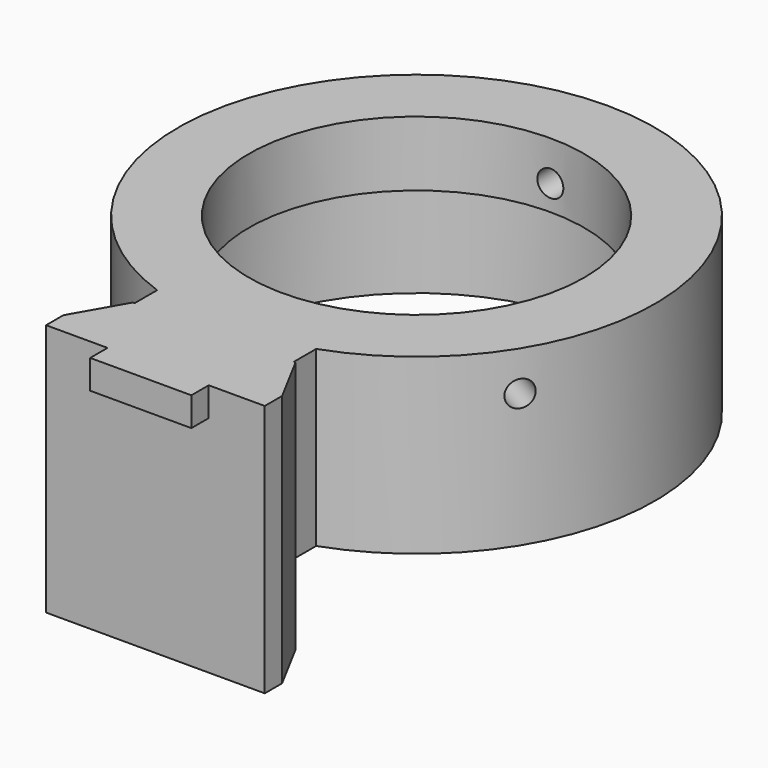
from build123d import *

# Parameters (mm, degrees)
CYLINDER004006_R                  = 2.1
CYLINDER004006_DEPTH              = 10
CYLINDER004005_R                  = 3.5
CYLINDER004005_DEPTH              = 3
FILLET001_R                       = 1
CYLINDER004008_R                  = 2.75
CYLINDER004008_DEPTH              = 8
CYLINDER004010_R                  = 3.5
CYLINDER004010_DEPTH              = 4
CYLINDER004009_R                  = 8
CYLINDER004009_DEPTH              = 6
FILLET_R                          = 1
CYLINDER003003009_R               = 28
CYLINDER003003009_DEPTH           = 15
CYLINDER003_R                     = 1.8
CYLINDER003_DEPTH                 = 15
CYLINDER003003007_PLACEMENT_ANGLE = 120
CYLINDER003003008_PLACEMENT_ANGLE = 120
BOX141_W                          = 14
BOX141_H                          = 4
BOX141_DEPTH                      = 3
EXTRUDE086_DEPTH                  = 35
FUSION445_PLACEMENT_ANGLE         = 90
CYLINDER_R                        = 23.2
CYLINDER_DEPTH                    = 42
CYLINDER002_R                     = 33
CYLINDER002_DEPTH                 = 24
BOX145_W                          = 22
BOX145_H                          = 8
BOX145_DEPTH                      = 24


with BuildPart() as obj1:
    # Cylinder004006 → Cylinder004006 (new body)
    with BuildSketch(Plane.XY.offset(1)):
        Circle(CYLINDER004006_R)
    extrude(amount=CYLINDER004006_DEPTH)


with BuildPart() as obj2:
    # Cylinder004005 → Cylinder004005 (new body)
    with BuildSketch(Plane.XY):
        Circle(CYLINDER004005_R)
    extrude(amount=CYLINDER004005_DEPTH)

    # Cut001005: cut obj1
    add(obj1.part, mode=Mode.SUBTRACT)

    # Fillet001
    fillet001_edges = [obj2.edges().sort_by_distance(p)[0] for p in [
        (-3.5, 0, 3),
        (-3.5, 0, 0),
    ]]
    fillet(fillet001_edges, radius=FILLET001_R)


with BuildPart() as obj3:
    # Cylinder004008 → Cylinder004008 (new body)
    with BuildSketch(Plane.XY):
        Circle(CYLINDER004008_R)
    extrude(amount=CYLINDER004008_DEPTH)


with BuildPart() as fusion003:
    # Cylinder004010 → Cylinder004010 (new body)
    with BuildSketch(Plane.XY):
        Circle(CYLINDER004010_R)
    extrude(amount=CYLINDER004010_DEPTH)

    # Fusion003: union obj3
    add(obj3.part)


with BuildPart() as fillet_body:
    # Cylinder004009 → Cylinder004009 (new body)
    with BuildSketch(Plane.XY):
        Circle(CYLINDER004009_R)
    extrude(amount=CYLINDER004009_DEPTH)

    # Cut001006: cut Fusion003
    add(fusion003.part, mode=Mode.SUBTRACT)

    # Fillet
    fillet_edges = [fillet_body.edges().sort_by_distance(p)[0] for p in [
        (-8, 0, 6),
        (-8, 0, 0),
    ]]
    fillet(fillet_edges, radius=FILLET_R)


with BuildPart() as obj4:
    # Cylinder003003009 → Cylinder003003009 (new body)
    with BuildSketch(Plane(origin=(0, 1, 0), x_dir=(1, 0, 0), z_dir=(0, 0, 1))):
        Circle(CYLINDER003003009_R)
    extrude(amount=CYLINDER003003009_DEPTH)


with BuildPart() as obj5:
    # Cylinder003 → Cylinder003 (new body)
    with BuildSketch(Plane(origin=(0, 36, 18.5), x_dir=(1, 0, 0), z_dir=(0, -1, 0))):
        Circle(CYLINDER003_R)
    extrude(amount=CYLINDER003_DEPTH)


with BuildPart() as obj6:
    # Cylinder003003007 base: copy of obj5
    add(obj5.part)


with BuildPart() as obj6_1:
    # Cylinder003003007 placement: moved
    add(obj6.part.rotate(Axis((0, 0, 0), (0, 0, 1)), CYLINDER003003007_PLACEMENT_ANGLE))


with BuildPart() as obj7:
    # Cylinder003003008 base: copy of obj5
    add(obj5.part)


with BuildPart() as obj7_1:
    # Cylinder003003008 placement: moved
    add(obj7.part.rotate(Axis((0, 0, 0), (0, 0, -1)), CYLINDER003003008_PLACEMENT_ANGLE))


with BuildPart() as fusion447:
    # Fusion447 base: copy of obj5
    add(obj5.part)

    # Fusion447: union obj6, obj7
    add(obj6_1.part)
    add(obj7_1.part)


with BuildPart() as krychle130:
    # Box141 → Box141 (new body)
    with BuildSketch(Plane(origin=(-6.5, 5, -3), x_dir=(1, 0, 0), z_dir=(0, 0, 1))):
        with Locations((7, 2)):
            Rectangle(BOX141_W, BOX141_H)
    extrude(amount=BOX141_DEPTH)


with BuildPart() as obj8:
    # Sketch046 → Extrude086 (new body)
    with BuildSketch(Plane(origin=(0, 40, 0), x_dir=(-1, 0, 0), z_dir=(0, 1, 0))):
        Polygon((0, 0), (0, 3), (-4, 10), (-26.5, 10), (-30.25, 3), (-30.25, 0), align=None)
    extrude(amount=-EXTRUDE086_DEPTH)


with BuildPart() as obj8_1:
    # Extrude086 placement: moved
    add(obj8.part.moved(Location((-15, 0, 0))))

    # Fusion445: union Krychle130
    add(krychle130.part)


with BuildPart() as obj8_2:
    # Fusion445 placement: moved
    add(obj8_1.part.moved(Location((-0.25, -44, 29))).rotate(Axis((-0.25, -44, 29), (-1, 0, 0)), FUSION445_PLACEMENT_ANGLE))


with BuildPart() as obj9:
    # Cylinder → Cylinder (new body)
    with BuildSketch(Plane.XY):
        Circle(CYLINDER_R)
    extrude(amount=CYLINDER_DEPTH)


with BuildPart() as cut:
    # Cylinder002 → Cylinder002 (new body)
    with BuildSketch(Plane.XY):
        Circle(CYLINDER002_R)
    extrude(amount=CYLINDER002_DEPTH)

    # Cut: cut obj9
    add(obj9.part, mode=Mode.SUBTRACT)


with BuildPart() as cut_1:
    # Cut placement: moved
    add(cut.part.moved(Location((0, 1, 0))))


with BuildPart() as cut001008:
    # Box145 → Box145 (new body)
    with BuildSketch(Plane(origin=(-11, -37, 0), x_dir=(1, 0, 0), z_dir=(0, 0, 1))):
        with Locations((11, 4)):
            Rectangle(BOX145_W, BOX145_H)
    extrude(amount=BOX145_DEPTH)

    # Fusion446: union obj8, Cut
    add(obj8_2.part)
    add(cut_1.part)

    # Cut001007: cut Fusion447
    add(fusion447.part, mode=Mode.SUBTRACT)

    # Cut001008: cut obj4
    add(obj4.part, mode=Mode.SUBTRACT)


solid = Compound([obj2.part, fillet_body.part, cut001008.part])
